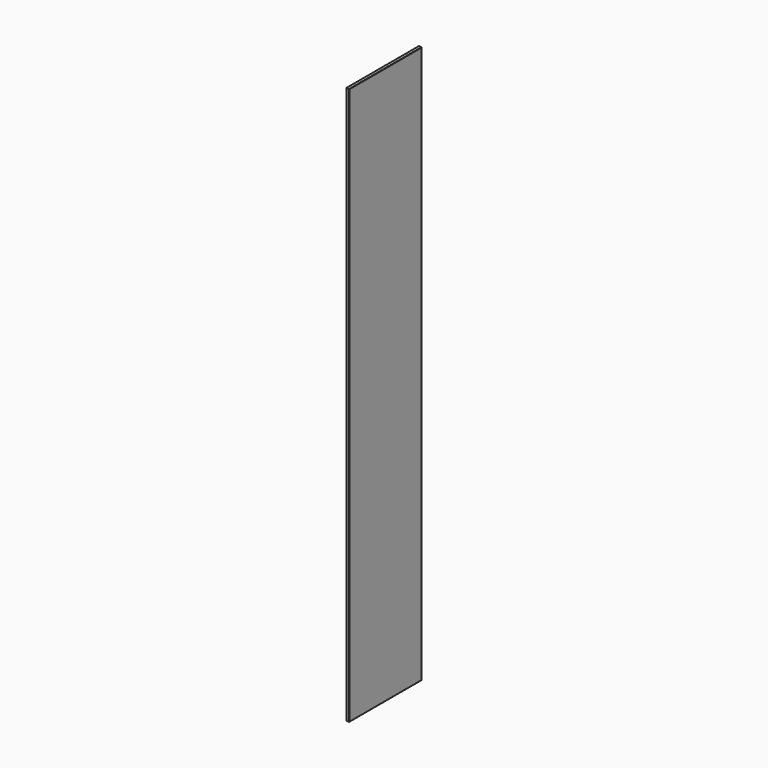
from build123d import *

# Parameters (mm, degrees)
F0_W     = 55.4160475731
F0_H     = 42.9720431566
F1_DEPTH = 14
F2_DEPTH = 1060
F3_DEPTH = 390
F4_DEPTH = 1340
F5_SIZE  = 1


with BuildPart() as f1:
    # F0 (on Right) → F1 (new body)
    with BuildSketch(Plane.YZ):
        with Locations((-27.7080237865, 21.4860215783)):
            Rectangle(F0_W, F0_H)
    extrude(amount=-F1_DEPTH)

    # F2 (add): a face of the model
    f2_faces = [f1.faces().sort_by_distance(p)[0] for p in [
        (-7, -27.7080237865, 0),
    ]]
    extrude(f2_faces, amount=-F2_DEPTH)

    # F3 (add): a face of the model
    f3_faces = [f1.faces().sort_by_distance(p)[0] for p in [
        (-7, 0, 530),
    ]]
    extrude(f3_faces, amount=-F3_DEPTH)

    # F4 (add): a face of the model
    f4_faces = [f1.faces().sort_by_distance(p)[0] for p in [
        (-7, -195, 1060),
    ]]
    extrude(f4_faces, amount=F4_DEPTH)

    # F5
    f5_edges = [f1.edges().sort_by_distance(p)[0] for p in [
        (0, -195, 0),
        (0, 0, 1200),
        (0, -195, 2400),
        (0, -390, 1200),
        (-14, 0, 1200),
        (-14, -195, 2400),
        (-14, -390, 1200),
        (-14, -195, 0),
    ]]
    chamfer(f5_edges, length=F5_SIZE)


solid = f1.part
